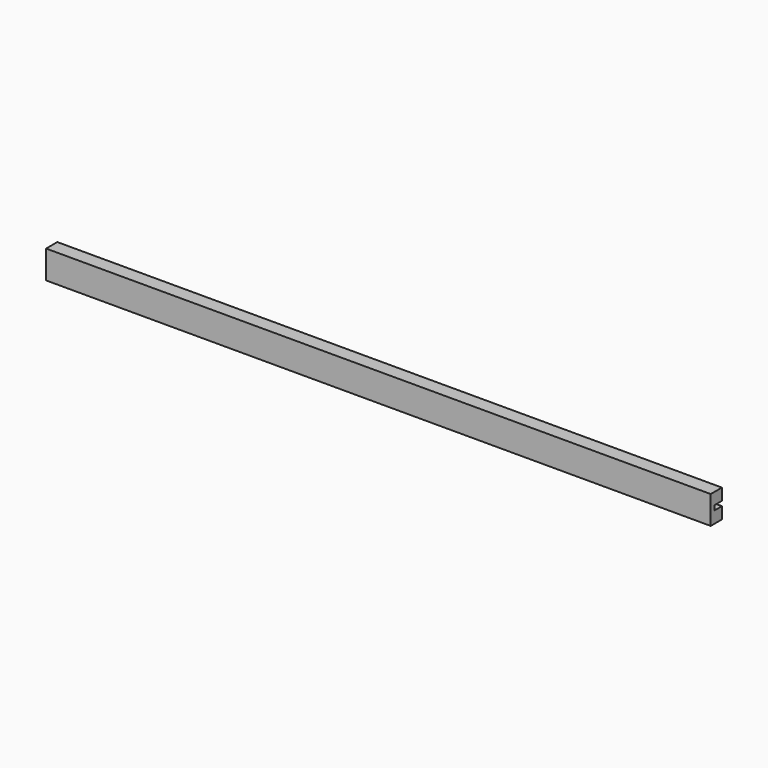
from build123d import *

# Parameters (mm, degrees)
F0_W     = 450.85
F0_H     = 7.9375
F0_H_2   = 3.175
F1_DEPTH = 9.525
F2_DEPTH = 6.35


with BuildPart() as f1:
    # F0 (on Front) → F1 (new body)
    with BuildSketch(Plane.XZ):
        with Locations((0, 5.55625)):
            Rectangle(F0_W, F0_H)
        Rectangle(F0_W, F0_H_2)
        with Locations((0, -5.55625)):
            Rectangle(F0_W, F0_H)
    extrude(amount=F1_DEPTH)

    # F0 (on Front) → F2 (cut)
    with BuildSketch(Plane.XZ):
        Rectangle(F0_W, F0_H_2)
    extrude(amount=F2_DEPTH, mode=Mode.SUBTRACT)


solid = f1.part
